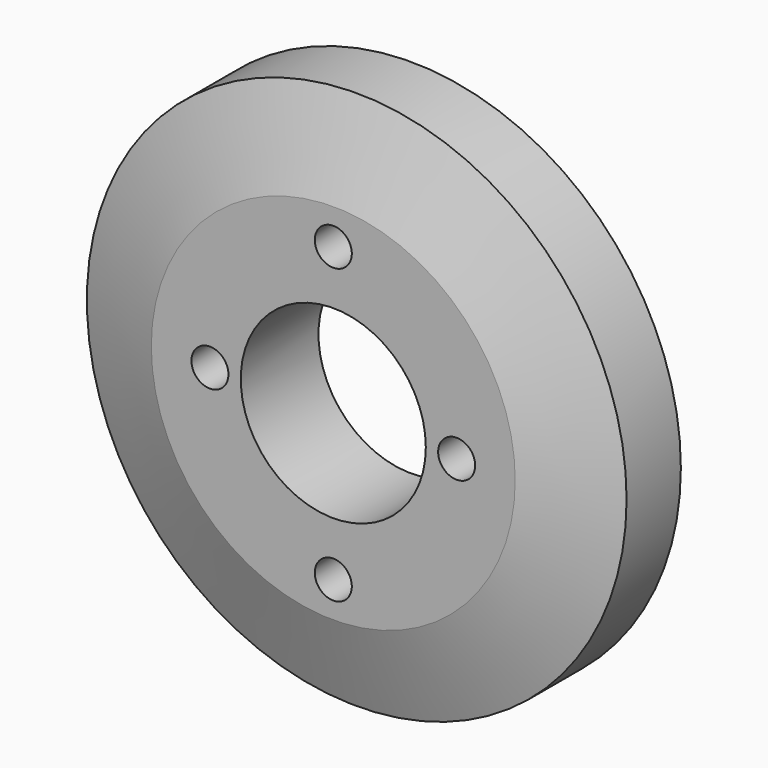
from build123d import *

# Parameters (mm, degrees)
F0_R     = 17.5
F0_R_2   = 6
F1_DEPTH = 6.3
F2_SIZE2 = 1.9
F2_SIZE  = 5.7
F4_D     = 2.4


with BuildPart() as f1:
    # F0 (on Front) → F1 (new body)
    with BuildSketch(Plane.XZ):
        Circle(F0_R)
        Circle(F0_R_2, mode=Mode.SUBTRACT)
    extrude(amount=F1_DEPTH)

    # F2
    f2_edges = [f1.edges().sort_by_distance(p)[0] for p in [
        (-17.5, -6.3, 0),
    ]]
    f2_side = f1.faces().sort_by_distance((-17.005025, -6.3, 0))[0]
    chamfer(f2_edges, length=F2_SIZE, length2=F2_SIZE2, reference=f2_side)

    # F4 (through all)
    with Locations(Plane.XZ.offset(6.3)):
        with Locations((0, 9.5), (-8, 0), (0, -9.5), (8, 0)):
            Hole(F4_D / 2)


solid = f1.part
